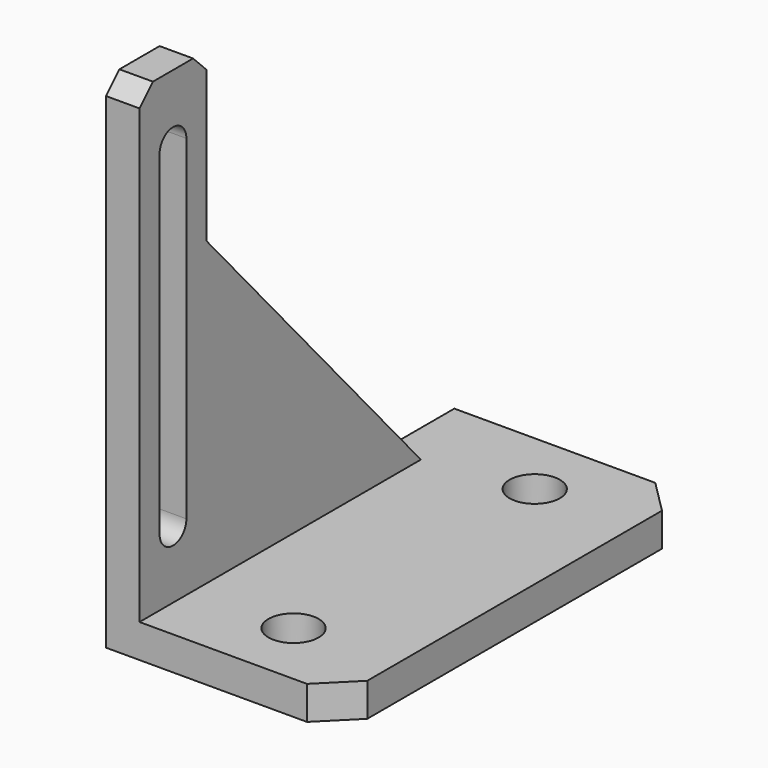
from build123d import *

# Parameters (mm, degrees)
PAD_DEPTH       = 2
SKETCH001_W     = 26
SKETCH001_H     = 2
PAD001_DEPTH    = 12
POCKET_DEPTH    = 5
SKETCH003_R     = 1.5
POCKET001_DEPTH = 5
CHAMFER_SIZE    = 2
CHAMFER001_SIZE = 1


with BuildPart() as part:
    # Sketch → Pad (new body)
    with BuildSketch(Plane.YZ):
        Polygon((0, 30), (0, 0), (26, 0), (26, 2), (21, 2), (5, 20), (5, 30), align=None)
    extrude(amount=PAD_DEPTH)

    # Sketch001 (on Face9 of Pad) → Pad001 (join)
    with BuildSketch(Plane.YZ.offset(2)):
        with Locations((13, 1)):
            Rectangle(SKETCH001_W, SKETCH001_H)
    extrude(amount=PAD001_DEPTH)

    # Sketch002 (on Face5 of Pad001) → Pocket (cut)
    with BuildSketch(Plane.YZ.offset(2)):
        with BuildLine():
            ThreePointArc((3.5, 26), (2.5, 27), (1.5, 26))
            Line((1.5, 26), (1.5, 6))
            ThreePointArc((1.5, 6), (2.5, 5), (3.5, 6))
            Line((3.5, 6), (3.5, 26))
        make_face()
    extrude(amount=-POCKET_DEPTH, mode=Mode.SUBTRACT)

    # Sketch003 (on Face16 of Pocket) → Pocket001 (cut)
    with BuildSketch(Plane(origin=(0, 0, 2), x_dir=(0, -1, 0), z_dir=(0, 0, 1))):
        with Locations((-22, 8)):
            Circle(SKETCH003_R)
        with Locations((-4, 8)):
            Circle(SKETCH003_R)
    extrude(amount=-POCKET001_DEPTH, mode=Mode.SUBTRACT)

    # Chamfer
    chamfer_edges = [part.edges().sort_by_distance(p)[0] for p in [
        (14, 0, 1),
        (14, 26, 1),
    ]]
    chamfer(chamfer_edges, length=CHAMFER_SIZE)

    # Chamfer001
    chamfer001_edges = [part.edges().sort_by_distance(p)[0] for p in [
        (1, 0, 30),
        (1, 5, 30),
    ]]
    chamfer(chamfer001_edges, length=CHAMFER001_SIZE)


solid = part.part
